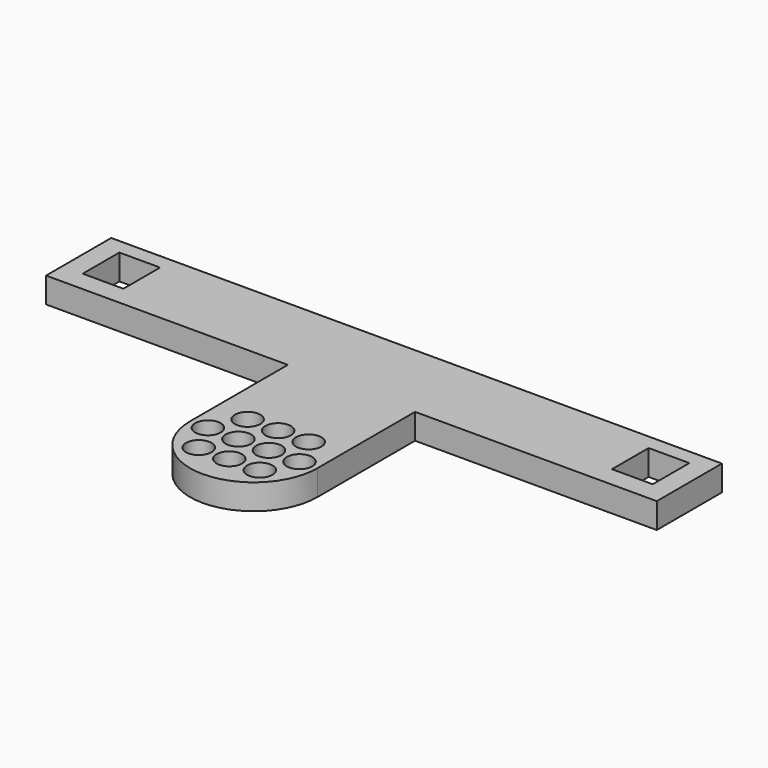
from build123d import *

# Parameters (mm, degrees)
BOX010_W          = 8
BOX010_H          = 9
BOX010_DEPTH      = 5
BOX011_W          = 8
BOX011_H          = 9
BOX011_DEPTH      = 5
CYLINDER012_R     = 2.5
CYLINDER012_DEPTH = 5
CYLINDER010_R     = 2.5
CYLINDER010_DEPTH = 5
CYLINDER009_R     = 2.5
CYLINDER009_DEPTH = 5
CYLINDER008_R     = 2.5
CYLINDER008_DEPTH = 5
CYLINDER005_R     = 2.5
CYLINDER005_DEPTH = 5
CYLINDER003_R     = 2.5
CYLINDER003_DEPTH = 5
CYLINDER004_R     = 2.5
CYLINDER004_DEPTH = 5
CYLINDER006_R     = 2.5
CYLINDER006_DEPTH = 5
CYLINDER007_R     = 2.5
CYLINDER007_DEPTH = 5
CYLINDER013_R     = 2.5
CYLINDER013_DEPTH = 5
BOX013_W          = 25
BOX013_H          = 26
BOX013_DEPTH      = 5
CYLINDER011_R     = 12.5
CYLINDER011_DEPTH = 5
BOX012_W          = 120
BOX012_H          = 16
BOX012_DEPTH      = 5


with BuildPart() as cube010:
    # Box010 → Box010 (new body)
    with BuildSketch(Plane(origin=(103, 8, 0), x_dir=(1, 0, 0), z_dir=(0, 0, 1))):
        with Locations((4, 4.5)):
            Rectangle(BOX010_W, BOX010_H)
    extrude(amount=BOX010_DEPTH)


with BuildPart() as cube011:
    # Box011 → Box011 (new body)
    with BuildSketch(Plane(origin=(-1, 8, 0), x_dir=(1, 0, 0), z_dir=(0, 0, 1))):
        with Locations((4, 4.5)):
            Rectangle(BOX011_W, BOX011_H)
    extrude(amount=BOX011_DEPTH)


with BuildPart() as zylinder012:
    # Cylinder012 → Cylinder012 (new body)
    with BuildSketch(Plane(origin=(6, -6, 0), x_dir=(1, 0, 0), z_dir=(0, 0, 1))):
        Circle(CYLINDER012_R)
    extrude(amount=CYLINDER012_DEPTH)


with BuildPart() as zylinder010:
    # Cylinder010 → Cylinder010 (new body)
    with BuildSketch(Plane(origin=(-6, -6, 0), x_dir=(1, 0, 0), z_dir=(0, 0, 1))):
        Circle(CYLINDER010_R)
    extrude(amount=CYLINDER010_DEPTH)


with BuildPart() as zylinder009:
    # Cylinder009 → Cylinder009 (new body)
    with BuildSketch(Plane(origin=(0, -6, 0), x_dir=(1, 0, 0), z_dir=(0, 0, 1))):
        Circle(CYLINDER009_R)
    extrude(amount=CYLINDER009_DEPTH)


with BuildPart() as zylinder008:
    # Cylinder008 → Cylinder008 (new body)
    with BuildSketch(Plane(origin=(0, 6, 0), x_dir=(1, 0, 0), z_dir=(0, 0, 1))):
        Circle(CYLINDER008_R)
    extrude(amount=CYLINDER008_DEPTH)


with BuildPart() as zylinder005:
    # Cylinder005 → Cylinder005 (new body)
    with BuildSketch(Plane(origin=(-3, 0, 0), x_dir=(1, 0, 0), z_dir=(0, 0, 1))):
        Circle(CYLINDER005_R)
    extrude(amount=CYLINDER005_DEPTH)


with BuildPart() as zylinder003:
    # Cylinder003 → Cylinder003 (new body)
    with BuildSketch(Plane(origin=(3, 0, 0), x_dir=(1, 0, 0), z_dir=(0, 0, 1))):
        Circle(CYLINDER003_R)
    extrude(amount=CYLINDER003_DEPTH)


with BuildPart() as zylinder004:
    # Cylinder004 → Cylinder004 (new body)
    with BuildSketch(Plane(origin=(9, 0, 0), x_dir=(1, 0, 0), z_dir=(0, 0, 1))):
        Circle(CYLINDER004_R)
    extrude(amount=CYLINDER004_DEPTH)


with BuildPart() as zylinder006:
    # Cylinder006 → Cylinder006 (new body)
    with BuildSketch(Plane(origin=(-9, 0, 0), x_dir=(1, 0, 0), z_dir=(0, 0, 1))):
        Circle(CYLINDER006_R)
    extrude(amount=CYLINDER006_DEPTH)


with BuildPart() as zylinder007:
    # Cylinder007 → Cylinder007 (new body)
    with BuildSketch(Plane(origin=(-6, 6, 0), x_dir=(1, 0, 0), z_dir=(0, 0, 1))):
        Circle(CYLINDER007_R)
    extrude(amount=CYLINDER007_DEPTH)


with BuildPart() as fusion007:
    # Cylinder013 → Cylinder013 (new body)
    with BuildSketch(Plane(origin=(6, 6, 0), x_dir=(1, 0, 0), z_dir=(0, 0, 1))):
        Circle(CYLINDER013_R)
    extrude(amount=CYLINDER013_DEPTH)

    # Fusion005: union Zylinder012, Zylinder010, Zylinder009, Zylinder008, Zylinder005, Zylinder003, Zylinder004, Zylinder006, Zylinder007
    add(zylinder012.part)
    add(zylinder010.part)
    add(zylinder009.part)
    add(zylinder008.part)
    add(zylinder005.part)
    add(zylinder003.part)
    add(zylinder004.part)
    add(zylinder006.part)
    add(zylinder007.part)


with BuildPart() as fusion007_1:
    # Fusion005 placement: moved
    add(fusion007.part.moved(Location((55, -20, 0))))

    # Fusion007: union Cube010, Cube011
    add(cube010.part)
    add(cube011.part)


with BuildPart() as cube013:
    # Box013 → Box013 (new body)
    with BuildSketch(Plane(origin=(42.5, -20, 0), x_dir=(1, 0, 0), z_dir=(0, 0, 1))):
        with Locations((12.5, 13)):
            Rectangle(BOX013_W, BOX013_H)
    extrude(amount=BOX013_DEPTH)


with BuildPart() as zylinder011:
    # Cylinder011 → Cylinder011 (new body)
    with BuildSketch(Plane(origin=(55, -20, 0), x_dir=(1, 0, 0), z_dir=(0, 0, 1))):
        Circle(CYLINDER011_R)
    extrude(amount=CYLINDER011_DEPTH)


with BuildPart() as obj1:
    # Box012 → Box012 (new body)
    with BuildSketch(Plane(origin=(-5, 4, 0), x_dir=(1, 0, 0), z_dir=(0, 0, 1))):
        with Locations((60, 8)):
            Rectangle(BOX012_W, BOX012_H)
    extrude(amount=BOX012_DEPTH)

    # Fusion006: union Cube013, Zylinder011
    add(cube013.part)
    add(zylinder011.part)

    # Cut003: cut Fusion007
    add(fusion007_1.part, mode=Mode.SUBTRACT)


with BuildPart() as obj1_1:
    # Cut003 placement: moved
    add(obj1.part.moved(Location((0, 0, -21))))


solid = obj1_1.part
